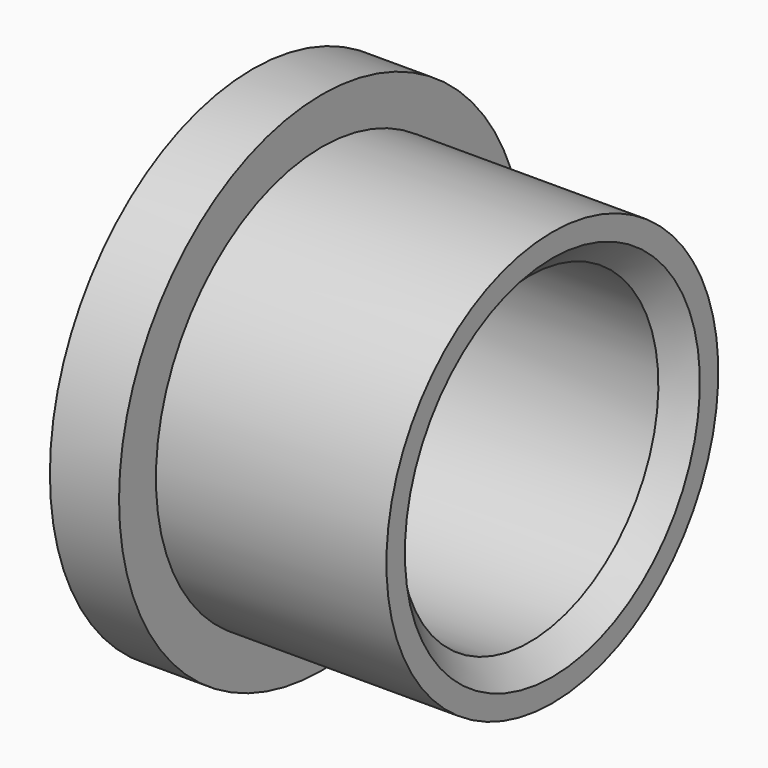
from build123d import *

# Parameters (mm, degrees)
F2_SIZE = 1


with BuildPart() as f1:
    # F0 (on Front) → F1 (revolve)
    with BuildSketch(Plane.XZ):
        Polygon((0, 11), (0, 7), (13, 7), (13, 9), (3, 9), (3, 11), align=None)
    revolve(axis=Axis((14.451209, 0, 0), (1, 0, 0)))

    # F2
    f2_edges = [f1.edges().sort_by_distance(p)[0] for p in [
        (13, 0, -7),
    ]]
    chamfer(f2_edges, length=F2_SIZE)


solid = f1.part
